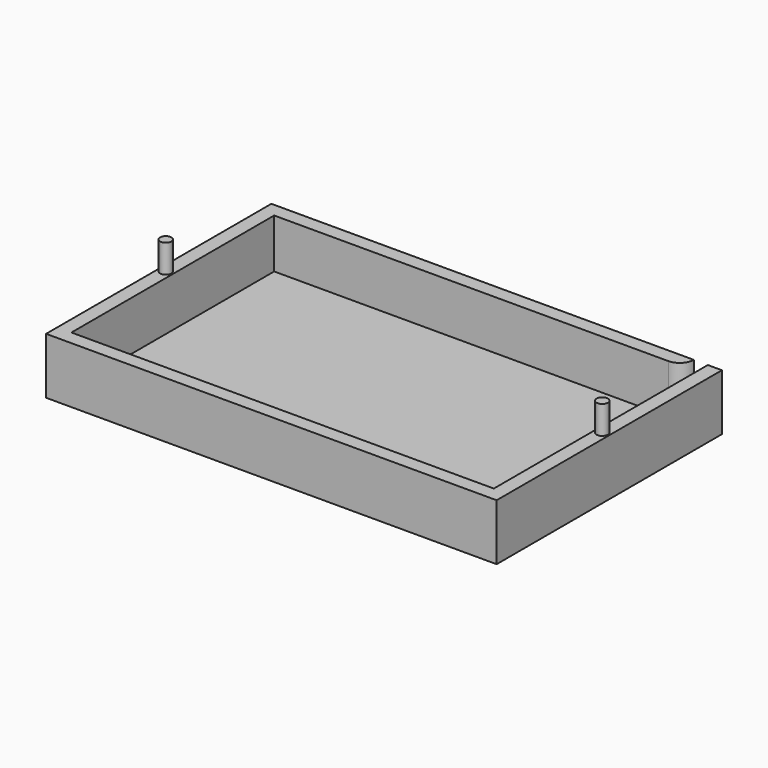
from build123d import *

# Parameters (mm, degrees)
F1_DEPTH = 25.4
F2_DEPTH = 3.175
F3_R     = 2.54
F4_DEPTH = 12.7


with BuildPart() as f1:
    # F0 (on Top) → F1 (new body)
    with BuildSketch(Plane.XY):
        with BuildLine():
            Line((88.9, 63.5), (-101.6, 63.5))
            Line((-101.6, 63.5), (-101.6, -63.5))
            Line((-101.6, -63.5), (101.6, -63.5))
            Line((101.6, -63.5), (101.6, 63.5))
            Line((101.6, 63.5), (95.25, 63.5))
            Line((95.25, 63.5), (95.25, 57.15))
            Line((95.25, 57.15), (95.25, -57.15))
            Line((95.25, -57.15), (-95.25, -57.15))
            Line((-95.25, -57.15), (-95.25, 57.15))
            Line((-95.25, 57.15), (82.55, 57.15))
            ThreePointArc((82.55, 57.15), (87.040128, 59.009872), (88.9, 63.5))
        make_face()
    extrude(amount=F1_DEPTH)

    # F0 (on Top) → F2 (join)
    with BuildSketch(Plane.XY):
        with BuildLine():
            Line((95.25, 63.5), (88.9, 63.5))
            ThreePointArc((88.9, 63.5), (87.040128, 59.009872), (82.55, 57.15))
            Line((82.55, 57.15), (-95.25, 57.15))
            Line((-95.25, 57.15), (-95.25, -57.15))
            Line((-95.25, -57.15), (95.25, -57.15))
            Line((95.25, -57.15), (95.25, 57.15))
            Line((95.25, 57.15), (95.25, 63.5))
        make_face()
    extrude(amount=F2_DEPTH)

    # F3 (on face) → F4 (join)
    with BuildSketch(Plane.XY.offset(25.4)):
        with Locations((-98.425, 0)):
            Circle(F3_R)
        with Locations((98.425, 0)):
            Circle(F3_R)
    extrude(amount=F4_DEPTH)


solid = f1.part
